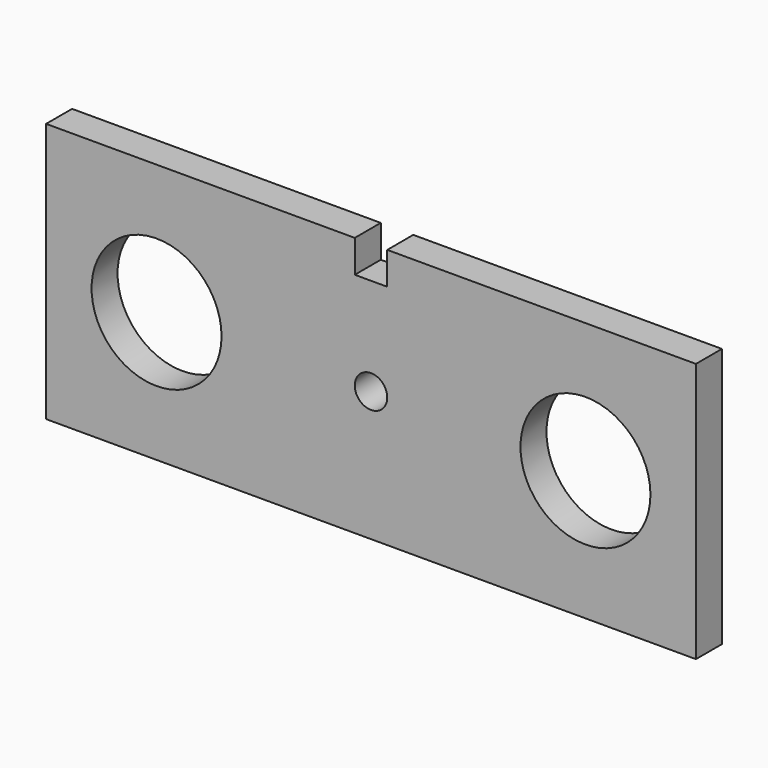
from build123d import *

# Parameters (mm, degrees)
F0_W     = 100
F0_H     = 40
F1_DEPTH = 5
F2_R     = 10
F2_R_2   = 2.5
F3_DEPTH = 5
F4_W     = 5
F4_H     = 5
F5_DEPTH = 5


with BuildPart() as f1:
    # F0 (on Front) → F1 (new body)
    with BuildSketch(Plane.XZ):
        Rectangle(F0_W, F0_H)
    extrude(amount=F1_DEPTH)

    # F2 (on face) → F3 (cut, through all)
    with BuildSketch(Plane.XZ.offset(5)):
        with Locations((-33, 0)):
            Circle(F2_R)
        Circle(F2_R_2)
        with Locations((33, 0)):
            Circle(F2_R)
    extrude(amount=-F3_DEPTH, mode=Mode.SUBTRACT)

    # F4 (on face) → F5 (cut, through all)
    with BuildSketch(Plane.XZ.offset(5)):
        with Locations((0, 17.5)):
            Rectangle(F4_W, F4_H)
    extrude(amount=-F5_DEPTH, mode=Mode.SUBTRACT)


solid = f1.part
